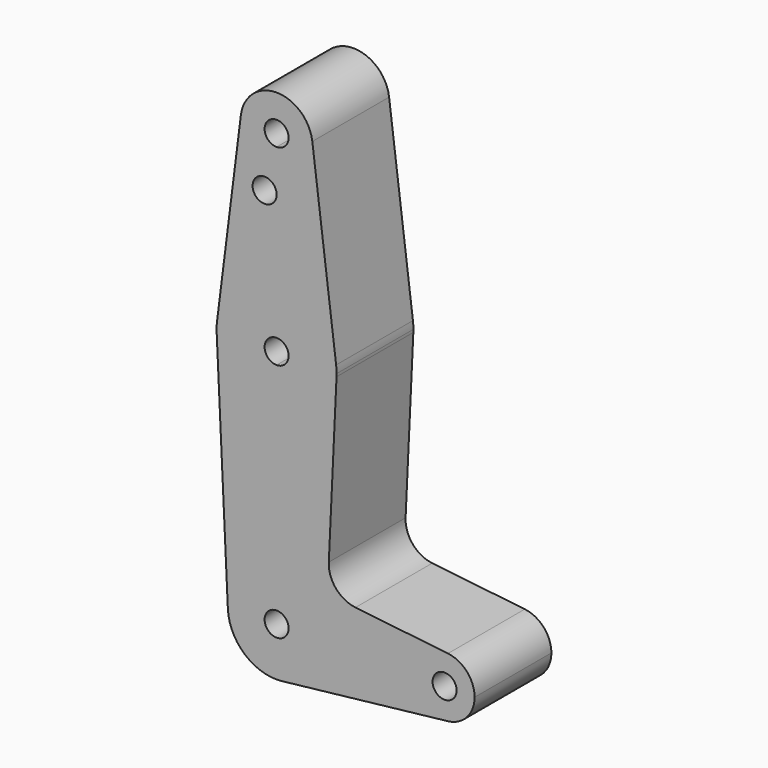
from build123d import *

# Parameters (mm, degrees)
F0_R     = 3.175
F1_DEPTH = 25.4


with BuildPart() as f1:
    # F0 (on Front) → F1 (new body)
    with BuildSketch(Plane.XZ):
        with BuildLine():
            ThreePointArc((12.9139914184, 0), (9.1315709041, 9.1315709041), (0, 12.9139914184))
            ThreePointArc((0, 12.9139914184), (-9.3420481109, 8.9161264824), (-12.8999439231, -0.6021803178))
            ThreePointArc((-12.8999439231, -0.6021803178), (-8.3783236603, -9.8272512432), (1.4458124092, -12.832801753))
            ThreePointArc((1.4458124092, -12.832801753), (9.6291843736, -8.6052299594), (12.9139914184, 0))
        make_face()
        with BuildLine():
            ThreePointArc((3.175, 0), (-2.2450640303, -2.2450640303), (0, 3.175))
            ThreePointArc((0, 3.175), (2.2450640303, 2.2450640303), (3.175, 0))
        make_face(mode=Mode.SUBTRACT)
        with BuildLine():
            ThreePointArc((-12.8999439231, -0.6021803178), (-9.3420481109, 8.9161264824), (0, 12.9139914184))
            Line((0, 12.9139914184), (0, 47.625))
            ThreePointArc((0, 47.625), (-10.9604772294, 52.0159430555), (-15.8577316083, 62.7597478546))
            Line((-15.8577316083, 62.7597478546), (-12.8999439231, -0.6021803178))
        make_face()
        with BuildLine():
            Line((0, 47.625), (0, 12.9139914184))
            ThreePointArc((0, 12.9139914184), (9.1315709041, 9.1315709041), (12.9139914184, 0))
            ThreePointArc((12.9139914184, 0), (9.6291843736, -8.6052299594), (1.4458124092, -12.832801753))
            Line((1.4458124092, -12.832801753), (45.3386591819, -7.8875972963))
            ThreePointArc((45.3386591819, -7.8875972963), (36.5125, 0), (45.3386591819, 7.8875972963))
            Line((45.3386591819, 7.8875972963), (20.8625465284, 10.6452079385))
            ThreePointArc((20.8625465284, 10.6452079385), (15.702707737, 13.3875042864), (13.8110755755, 18.9161436649))
            Line((13.8110755755, 18.9161436649), (15.8577316083, 62.7597478546))
            ThreePointArc((15.8577316083, 62.7597478546), (10.9604772294, 52.0159430555), (0, 47.625))
        make_face()
        with BuildLine():
            ThreePointArc((-15.8577316083, 62.7597478546), (-10.9604772294, 52.0159430555), (0, 47.625))
            Line((0, 47.625), (0, 60.325))
            ThreePointArc((0, 60.325), (-3.175, 63.5), (0, 66.675))
            Line((0, 66.675), (0, 79.375))
            ThreePointArc((0, 79.375), (-10.5003254371, 75.4062500694), (-15.7504882475, 65.4843752081))
            ThreePointArc((-15.7504882475, 65.4843752081), (-15.8627169541, 64.1243683475), (-15.8577316083, 62.7597478546))
        make_face()
        with BuildLine():
            Line((0, 60.325), (0, 47.625))
            ThreePointArc((0, 47.625), (10.9604772294, 52.0159430555), (15.8577316083, 62.7597478546))
            ThreePointArc((15.8577316083, 62.7597478546), (15.8706823149, 63.129773233), (15.875, 63.5))
            ThreePointArc((15.875, 63.5), (15.8438414904, 64.4941387366), (15.7504882737, 65.484375))
            ThreePointArc((15.7504882737, 65.484375), (10.5003255158, 75.40625), (0, 79.375))
            Line((0, 79.375), (0, 66.675))
            ThreePointArc((0, 66.675), (2.2450640303, 65.7450640303), (3.175, 63.5))
            ThreePointArc((3.175, 63.5), (2.2450640303, 61.2549359697), (0, 60.325))
        make_face()
        with BuildLine():
            Line((-9.4502929642, 115.490625), (-15.7504882475, 65.4843752081))
            ThreePointArc((-15.7504882475, 65.4843752081), (-10.5003254371, 75.4062500694), (0, 79.375))
            Line((0, 79.375), (0, 100.0252))
            Line((0, 100.0252), (0, 104.775))
            ThreePointArc((0, 104.775), (-7.14375, 107.9998046905), (-9.4502929642, 115.490625))
        make_face()
        with Locations((-3.175, 100.0252)):
            Circle(F0_R, mode=Mode.SUBTRACT)
        with BuildLine():
            ThreePointArc((45.3386591819, 7.8875972963), (36.5125, 0), (45.3386591819, -7.8875972963))
            ThreePointArc((45.3386591819, -7.8875972963), (50.3685149533, -5.2891480408), (52.3875, 0))
            ThreePointArc((52.3875, 0), (50.3685149533, 5.2891480408), (45.3386591819, 7.8875972963))
        make_face()
        with Locations((44.45, 0)):
            Circle(F0_R, mode=Mode.SUBTRACT)
        with BuildLine():
            Line((0, 100.0252), (0, 79.375))
            ThreePointArc((0, 79.375), (10.5003255158, 75.40625), (15.7504882737, 65.484375))
            Line((15.7504882737, 65.484375), (9.4502929642, 115.490625))
            ThreePointArc((9.4502929642, 115.490625), (9.5063048942, 114.896483242), (9.525, 114.3))
            ThreePointArc((9.525, 114.3), (6.7351920908, 107.5648079092), (0, 104.775))
            Line((0, 104.775), (0, 100.0252))
        make_face()
        with BuildLine():
            ThreePointArc((9.4502929642, 115.490625), (0, 123.825), (-9.4502929642, 115.490625))
            ThreePointArc((-9.4502929642, 115.490625), (-7.14375, 107.9998046905), (0, 104.775))
            ThreePointArc((0, 104.775), (6.7351920908, 107.5648079092), (9.525, 114.3))
            ThreePointArc((9.525, 114.3), (9.5063048942, 114.896483242), (9.4502929642, 115.490625))
        make_face()
        with BuildLine():
            ThreePointArc((3.175, 114.3), (2.2450640303, 112.0549359697), (0, 111.125))
            ThreePointArc((0, 111.125), (-2.2450640303, 116.5450640303), (3.175, 114.3))
        make_face(mode=Mode.SUBTRACT)
    extrude(amount=F1_DEPTH)


solid = f1.part
